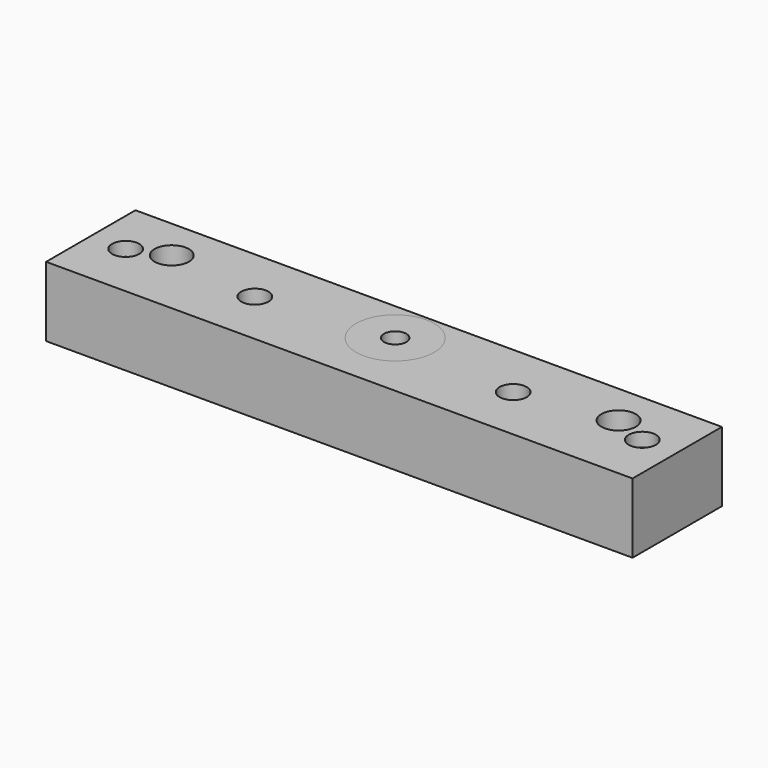
from build123d import *

# Parameters (mm, degrees)
F0_W           = 210
F0_H           = 40
F0_R           = 6.15
F0_R_2         = 14
F0_R_3         = 10
F1_DEPTH       = 25
F2_DEPTH       = 8
F3_D           = 5.5
F3_CBORE_D     = 9.75
F3_CBORE_DEPTH = 5
F0_R_4         = 4
F4_DEPTH       = 8


with BuildPart() as f1:
    # F0 (on Top) → F1 (new body)
    with BuildSketch(Plane.XY):
        Rectangle(F0_W, F0_H)
        with Locations((-80, 5)):
            Circle(F0_R, mode=Mode.SUBTRACT)
        with Locations((0, 5)):
            Circle(F0_R_2, mode=Mode.SUBTRACT)
        with Locations((80, 5)):
            Circle(F0_R, mode=Mode.SUBTRACT)
        Rectangle(F0_W, F0_H)
        with Locations((-80, 5)):
            Circle(F0_R, mode=Mode.SUBTRACT)
        with Locations((0, 5)):
            Circle(F0_R_2, mode=Mode.SUBTRACT)
        with Locations((80, 5)):
            Circle(F0_R, mode=Mode.SUBTRACT)
        with Locations((0, 5)):
            Circle(F0_R_2)
        with Locations((0, 5)):
            Circle(F0_R_3, mode=Mode.SUBTRACT)
    extrude(amount=-F1_DEPTH)

    # F0 (on Top) → F2 (cut)
    with BuildSketch(Plane.XY):
        with Locations((0, 5)):
            Circle(F0_R_2)
        with Locations((0, 5)):
            Circle(F0_R_3, mode=Mode.SUBTRACT)
    extrude(amount=-F2_DEPTH, mode=Mode.SUBTRACT)

    # F3 (through all)
    with Locations(Plane.XY):
        with Locations((-92.5, 0), (-46.25, 0), (46.25, 0), (92.5, 0)):
            CounterBoreHole(F3_D / 2, F3_CBORE_D / 2, F3_CBORE_DEPTH)


with BuildPart() as f4:
    # F0 (on Top) → F4 (new body)
    with BuildSketch(Plane.XY):
        with Locations((0, 5)):
            Circle(F0_R_2)
        with Locations((0, 5)):
            Circle(F0_R_3, mode=Mode.SUBTRACT)
        with Locations((0, 5)):
            Circle(F0_R_3)
        with Locations((0, 5)):
            Circle(F0_R_4, mode=Mode.SUBTRACT)
    extrude(amount=-F4_DEPTH)


solid = Compound([f1.part, f4.part])
